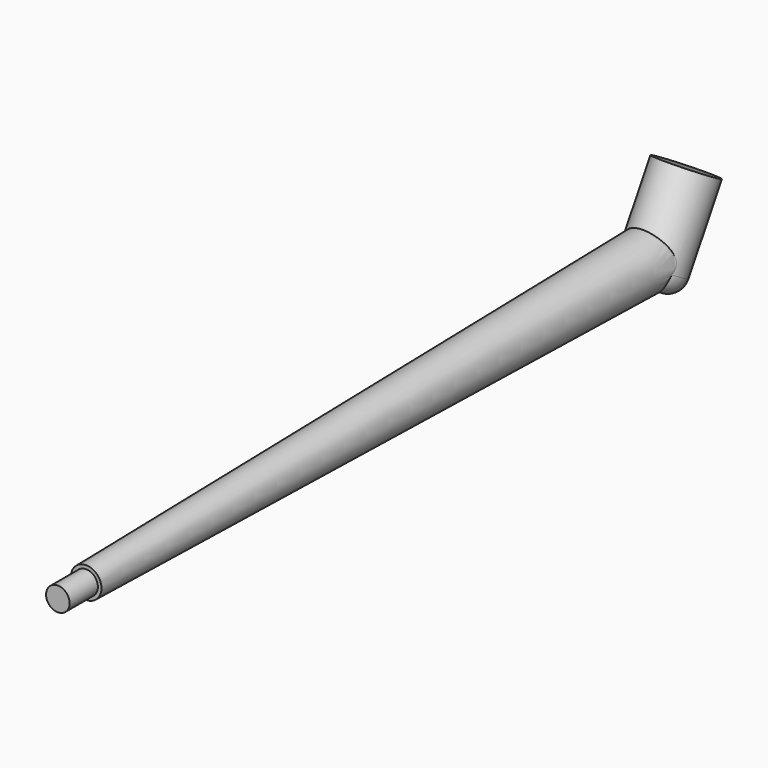
from build123d import *

# Parameters (mm, degrees)
F0_R     = 2.9972
F1_DEPTH = 76.962
F1_TAPER = 1
F4_R     = 1.27
F5_DEPTH = 3.81


with BuildPart() as f1:
    # F0 (on Front) → F1 (new body)
    with BuildSketch(Plane.XZ):
        Circle(F0_R)
    extrude(amount=F1_DEPTH, taper=F1_TAPER)

    # F2 (on Right) → F3 (revolve)
    with BuildSketch(Plane.YZ):
        with BuildLine():
            Line((0.2946257891, 0.4991786979), (0, 0))
            Line((0, 0), (-1.5448811736, -2.6174618826))
            Line((-1.5448811736, -2.6174618826), (0, -3.529283314))
            ThreePointArc((0, -3.529283314), (1.1892758064, -3.4725018248), (2.0940375895, -2.6985462724))
            Line((2.0940375895, -2.6985462724), (6.6074357329, 4.9484157097))
            Line((6.6074357329, 4.9484157097), (3.8731704317, 6.5622367229))
            Line((3.8731704317, 6.5622367229), (0.2946257891, 0.4991786979))
        make_face()
    revolve(axis=Axis((0, 1.9365852158, 3.2811183614), (0, 0.5082900829, 0.8611859216)))

    # F4 (on face) → F5 (join)
    with BuildSketch(Plane.XZ.offset(76.962)):
        Circle(F4_R)
    extrude(amount=F5_DEPTH)


solid = f1.part
